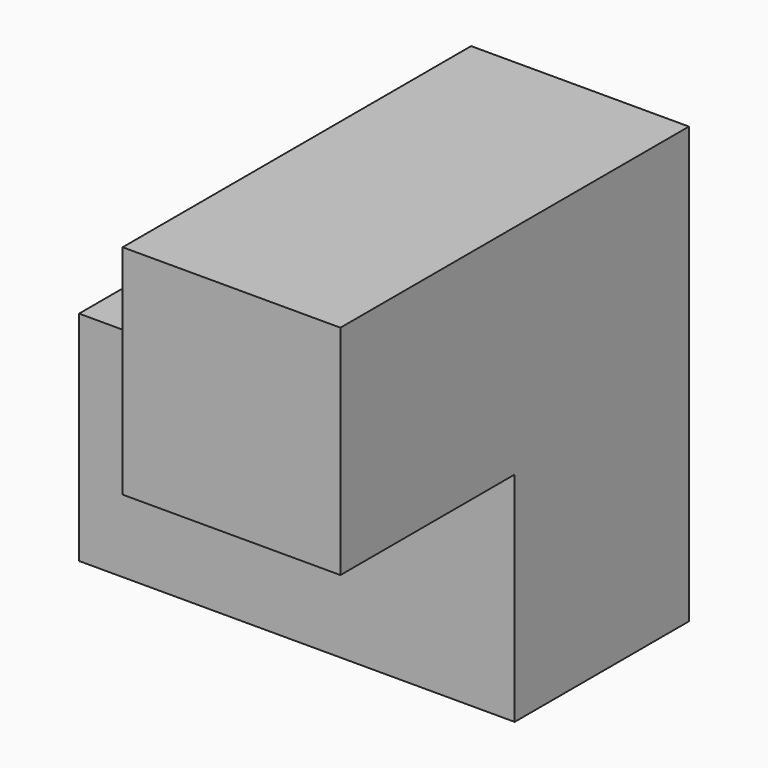
from build123d import *

# Parameters (mm, degrees)
F0_W     = 127
F0_H     = 127
F1_DEPTH = 127
F2_W     = 127
F2_H     = 127
F3_DEPTH = 127
F4_W     = 127
F4_H     = 127
F5_DEPTH = 127
F6_W     = 127
F6_H     = 127
F7_DEPTH = 127


with BuildPart() as f1:
    # F0 (on Front) → F1 (new body, symmetric)
    with BuildSketch(Plane.XZ):
        Rectangle(F0_W, F0_H)
    extrude(amount=F1_DEPTH, both=True)

    # F2 (on face) → F3 (join)
    with BuildSketch(Plane.YZ.offset(63.5)):
        with Locations((-63.5, 0)):
            Rectangle(F2_W, F2_H)
    extrude(amount=F3_DEPTH)

    # F4 (on face) → F5 (join)
    with BuildSketch(Plane.XY.offset(63.5)):
        with Locations((127, -63.5)):
            Rectangle(F4_W, F4_H)
    extrude(amount=F5_DEPTH)

    # F6 (on face) → F7 (join)
    with BuildSketch(Plane.XZ.offset(127)):
        with Locations((127, 127)):
            Rectangle(F6_W, F6_H)
    extrude(amount=F7_DEPTH)


solid = f1.part
